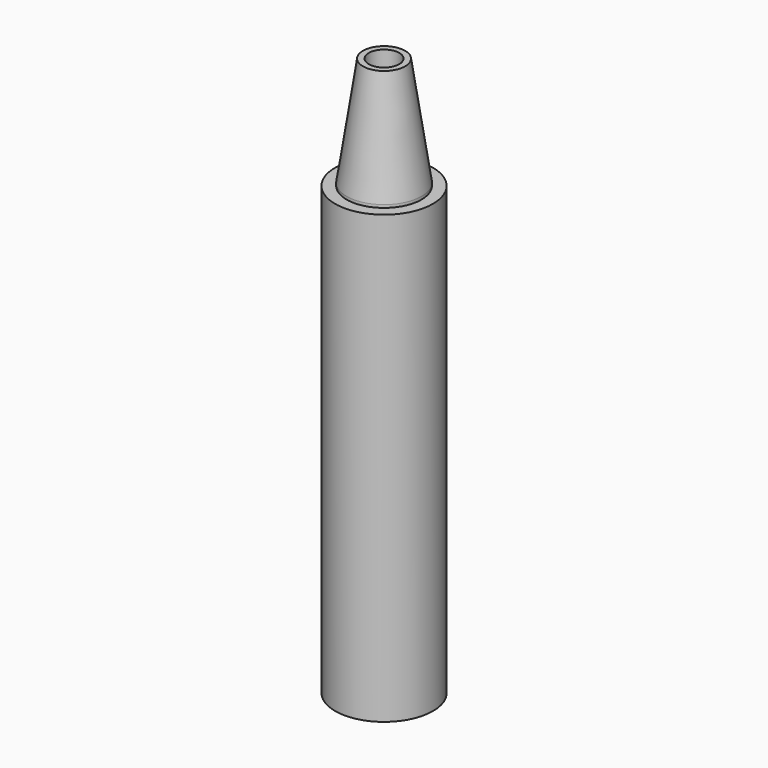
from build123d import *

# Parameters (mm, degrees)
F0_R     = 22.7775322378
F1_DEPTH = 207.9115826637
F2_R     = 17.4342882966
F3_DEPTH = 52.1602202207
F4_SIZE2 = 50.8
F4_SIZE  = 7.62
F5_R     = 7.0950919486
F6_DEPTH = 295.2890638262


with BuildPart() as f1:
    # F0 (on Top) → F1 (new body)
    with BuildSketch(Plane.XY):
        with Locations((18.9419090748, 20.0417488813)):
            Circle(F0_R)
    extrude(amount=F1_DEPTH)

    # F2 (on face) → F3 (join)
    with BuildSketch(Plane.XY.offset(207.9115826637)):
        with Locations((18.9419090748, 20.0417488813)):
            Circle(F2_R)
    extrude(amount=F3_DEPTH)

    # F4
    f4_edges = [f1.edges().sort_by_distance(p)[0] for p in [
        (1.507621, 20.041749, 260.071803),
    ]]
    f4_side = f1.faces().sort_by_distance((18.941909, 20.041749, 260.071803))[0]
    chamfer(f4_edges, length=F4_SIZE, length2=F4_SIZE2, reference=f4_side)

    # F5 (on face) → F6 (cut)
    with BuildSketch(Plane.XY.offset(260.0718028843)):
        with Locations((18.9419090748, 20.0417488813)):
            Circle(F5_R)
    extrude(amount=-F6_DEPTH, mode=Mode.SUBTRACT)


solid = f1.part
